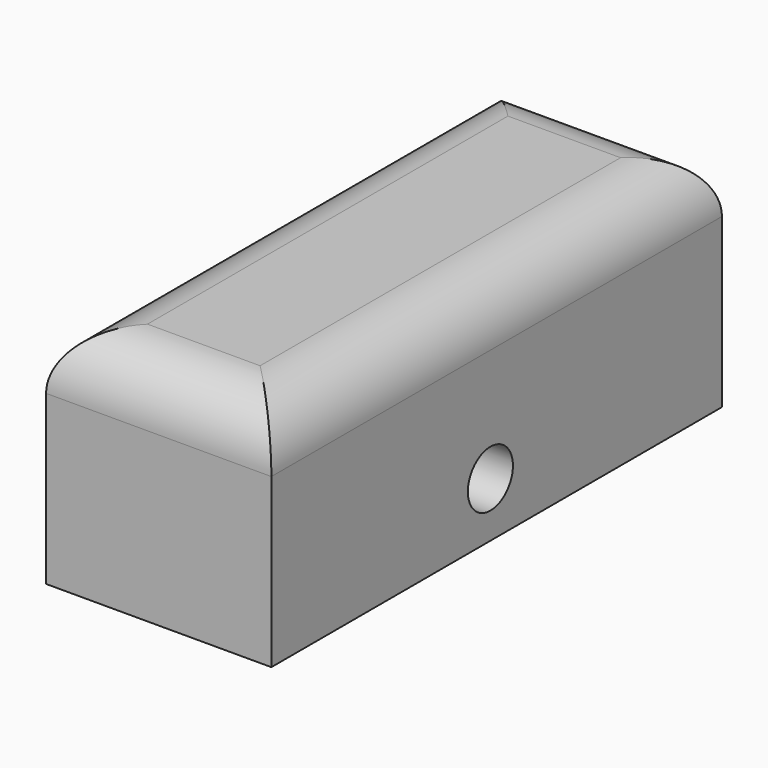
from build123d import *

# Parameters (mm, degrees)
F0_W     = 50.8
F0_H     = 127
F1_DEPTH = 50.544538
F2_R     = 12.7
F3_R     = 6.35
F4_DEPTH = 105.582835


with BuildPart() as f1:
    # F0 (on Top) → F1 (new body)
    with BuildSketch(Plane.XY):
        with Locations((0, 1.760196)):
            Rectangle(F0_W, F0_H)
    extrude(amount=F1_DEPTH)

    # F2
    f2_edges = [f1.edges().sort_by_distance(p)[0] for p in [
        (25.4, 1.760196, 50.544538),
        (0, -61.739804, 50.544538),
        (-25.4, 1.760196, 50.544538),
        (0, 65.260196, 50.544538),
    ]]
    fillet(f2_edges, radius=F2_R)

    # F3 (on face) → F4 (cut)
    with BuildSketch(Plane.YZ.offset(25.4)):
        with Locations((0, 12.333511)):
            Circle(F3_R)
    extrude(amount=-F4_DEPTH, mode=Mode.SUBTRACT)


solid = f1.part
